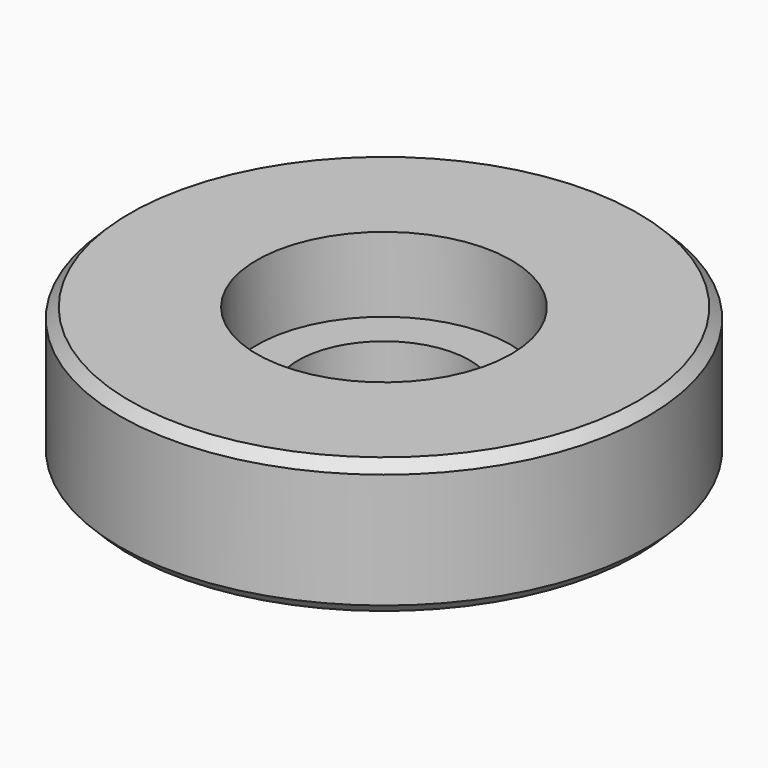
from build123d import *

# Parameters (mm, degrees)
F0_R     = 26.15
F1_DEPTH = 13.4
F2_R     = 12.6
F3_DEPTH = 7.4
F4_R     = 8.5
F5_DEPTH = 6
F6_R     = 13.5
F6_R_2   = 8.5
F7_DEPTH = 1
F8_SIZE  = 1


with BuildPart() as f1:
    # F0 (on Top) → F1 (new body)
    with BuildSketch(Plane.XY):
        Circle(F0_R)
    extrude(amount=F1_DEPTH)

    # F2 (on face) → F3 (cut)
    with BuildSketch(Plane.XY.offset(13.4)):
        Circle(F2_R)
    extrude(amount=-F3_DEPTH, mode=Mode.SUBTRACT)

    # F4 (on face) → F5 (cut, through all)
    with BuildSketch(Plane.XY.offset(6)):
        Circle(F4_R)
    extrude(amount=-F5_DEPTH, mode=Mode.SUBTRACT)

    # F6 (on face) → F7 (join)
    with BuildSketch(Plane(origin=(0, 0, 0), x_dir=(1, 0, 0), z_dir=(0, 0, -1))):
        Circle(F6_R)
        Circle(F6_R_2, mode=Mode.SUBTRACT)
    extrude(amount=F7_DEPTH)

    # F8
    f8_edges = [f1.edges().sort_by_distance(p)[0] for p in [
        (-26.15, 0, 13.4),
        (-26.15, 0, 0),
    ]]
    chamfer(f8_edges, length=F8_SIZE)


solid = f1.part
